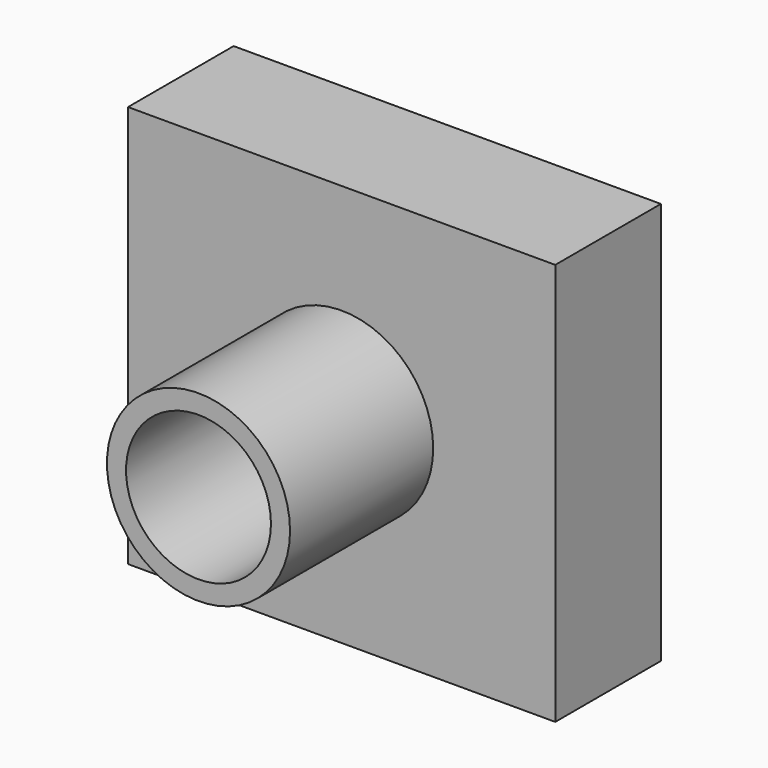
from build123d import *

# Parameters (mm, degrees)
F0_W      = 99.465304
F0_H      = 93.672826
F1_DEPTH  = 30.734
F2_R      = 21.313315
F2_R_2    = 16.867253
F3_DEPTH  = 72.39
F4_DEPTH  = 1.016
F4_FACE_R = 16.867253
F6_DEPTH  = 76.708


with BuildPart() as f1:
    # F0 (on Front) → F1 (new body)
    with BuildSketch(Plane.XZ):
        Rectangle(F0_W, F0_H)
    extrude(amount=F1_DEPTH)

    # F2 (on Front) → F3 (join)
    with BuildSketch(Plane.XZ):
        Circle(F2_R)
        Circle(F2_R_2, mode=Mode.SUBTRACT)
    extrude(amount=F3_DEPTH)

    # F2 (on Front) → F4 (cut)
    with BuildSketch(Plane.XZ):
        Circle(F2_R)
        Circle(F2_R_2, mode=Mode.SUBTRACT)
    extrude(amount=F4_DEPTH, mode=Mode.SUBTRACT)

    # F4_face (on face) → F6 (cut)
    with BuildSketch(Plane(origin=(0, 0, 0), x_dir=(1, 0, 0), z_dir=(0, 1, 0))):
        Circle(F4_FACE_R)
    extrude(amount=-F6_DEPTH, mode=Mode.SUBTRACT)


solid = f1.part
